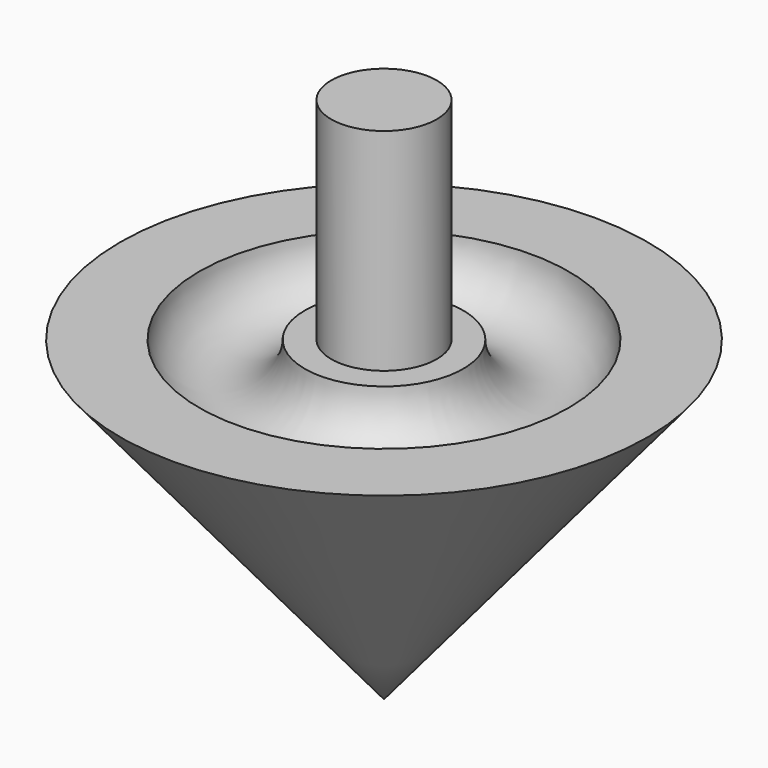
from build123d import *

# Parameters (mm, degrees)
F2_R     = 2.54
F3_DEPTH = 10.16


with BuildPart() as f1:
    # F0 (on Front) → F1 (revolve)
    with BuildSketch(Plane.XZ):
        with BuildLine():
            Line((0, -15.24), (0, 0))
            Line((0, 0), (-3.81, 0))
            ThreePointArc((-3.81, 0), (-6.35, -2.54), (-8.89, 0))
            Line((-8.89, 0), (-12.7, 0))
            Line((-12.7, 0), (0, -15.24))
        make_face()
    revolve(axis=Axis((0, 0, -7.62), (0, 0, -1)))

    # F2 (on face) → F3 (join)
    with BuildSketch(Plane.XY):
        Circle(F2_R)
    extrude(amount=F3_DEPTH)


solid = f1.part
